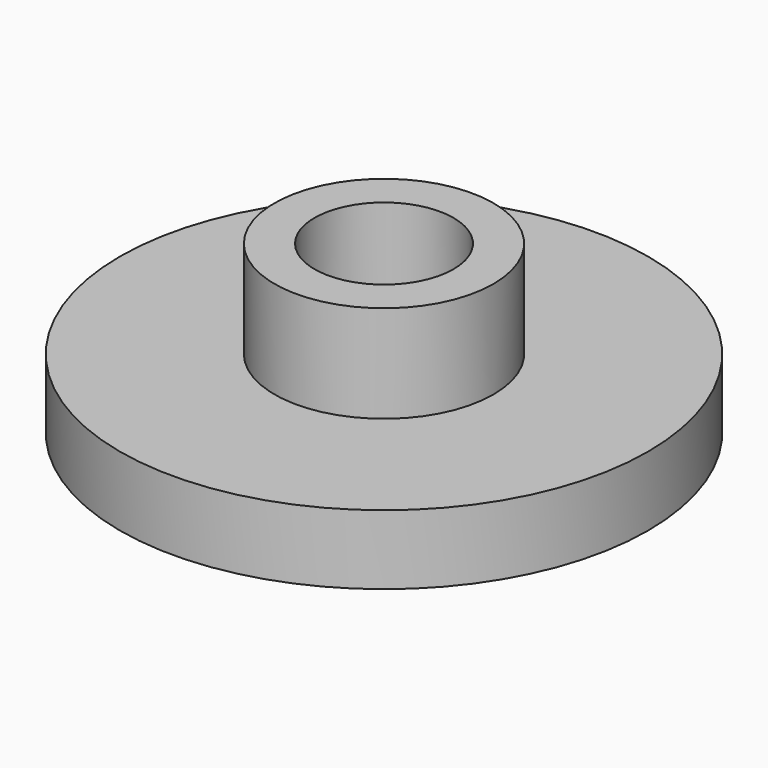
from build123d import *

# Parameters (mm, degrees)
F0_R     = 9.652
F0_R_2   = 3.8735
F1_DEPTH = 2.54
F2_R     = 4.0005
F3_DEPTH = 6.096
F4_R     = 2.54
F5_DEPTH = 4.572


with BuildPart() as f1:
    # F0 (on Top) → F1 (new body)
    with BuildSketch(Plane.XY):
        Circle(F0_R)
        Circle(F0_R_2, mode=Mode.SUBTRACT)
    extrude(amount=F1_DEPTH)

    # F2 (on Top) → F3 (join)
    with BuildSketch(Plane.XY):
        Circle(F2_R)
    extrude(amount=F3_DEPTH)

    # F4 (on face) → F5 (cut)
    with BuildSketch(Plane.XY.offset(6.096)):
        Circle(F4_R)
    extrude(amount=-F5_DEPTH, mode=Mode.SUBTRACT)


solid = f1.part
